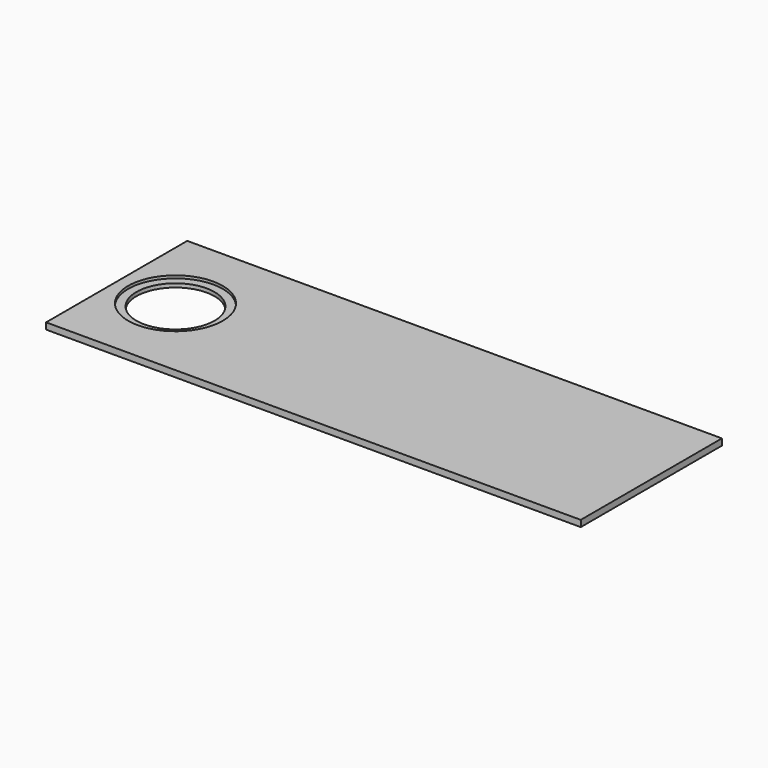
from build123d import *

# Parameters (mm, degrees)
F0_W     = 1000
F0_H     = 330
F0_R     = 88.5
F1_DEPTH = 12
F0_R_2   = 73
F2_DEPTH = 7


with BuildPart() as f1:
    # F0 (on Top) → F1 (new body)
    with BuildSketch(Plane.XY):
        with Locations((500, 165)):
            Rectangle(F0_W, F0_H)
        with Locations((110, 165)):
            Circle(F0_R, mode=Mode.SUBTRACT)
    extrude(amount=F1_DEPTH)

    # F0 (on Top) → F2 (join)
    with BuildSketch(Plane.XY):
        with Locations((110, 165)):
            Circle(F0_R)
        with Locations((110, 165)):
            Circle(F0_R_2, mode=Mode.SUBTRACT)
    extrude(amount=F2_DEPTH)


solid = f1.part
